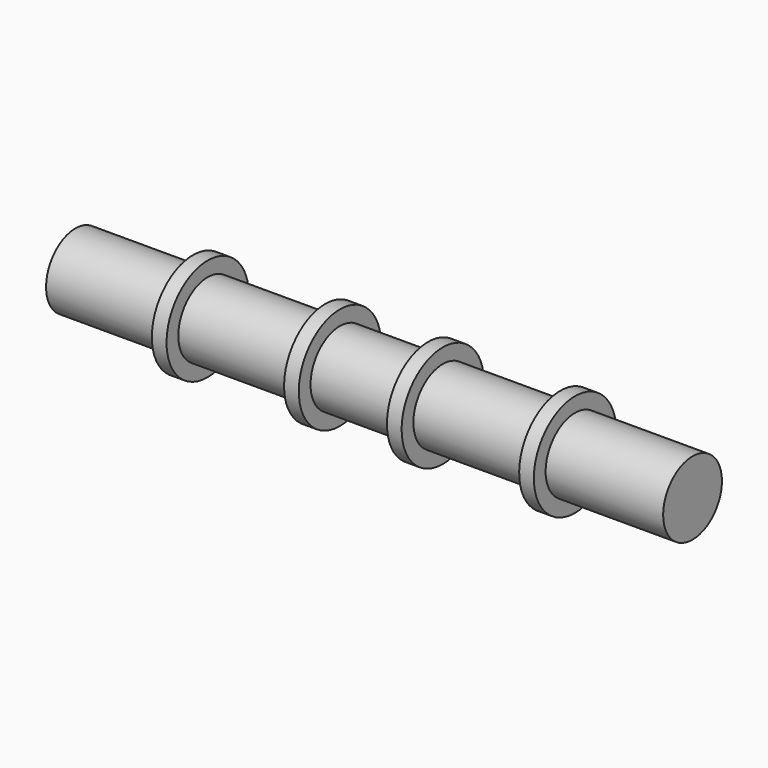
from build123d import *


with BuildPart() as f1:
    # F0 (on Front) → F1 (revolve)
    with BuildSketch(Plane.XZ):
        Polygon((105, 0), (0, 0), (-105, 0), (-105, -12.5), (-65, -12.5), (-65, -17.5), (-60, -17.5), (-60, -12.5), (-20, -12.5), (-20, -17.5), (-15, -17.5), (-15, -12.5), (15, -12.5), (15, -17.5), (20, -17.5), (20, -12.5), (60, -12.5), (60, -17.5), (65, -17.5), (65, -12.5), (105, -12.5), align=None)
    revolve(axis=Axis((-52.5, 0, 0), (-1, 0, 0)))


solid = f1.part
